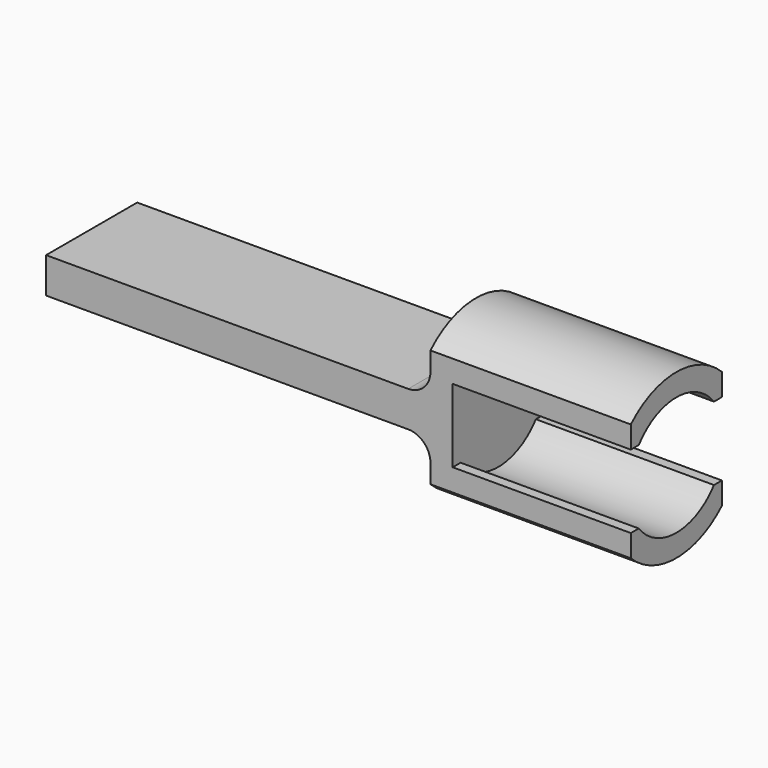
from build123d import *

# Parameters (mm, degrees)
F1_DEPTH = 25.4
F2_DEPTH = 3.175
F3_W     = 16.2421034352
F3_H     = 5.08
F4_DEPTH = 54.8132
F5_R     = 3.175


with BuildPart() as f1:
    # F0 (on Right) → F1 (new body)
    with BuildSketch(Plane.YZ):
        with BuildLine():
            Line((-8.1210517176, 8.4002604126), (-8.1210517176, 5.2353069186))
            Line((-8.1210517176, 5.2353069186), (-6.7078045937, 5.2353069186))
            ThreePointArc((-6.7078045937, 5.2353069186), (0, 8.509), (6.7078045937, 5.2353069186))
            Line((6.7078045937, 5.2353069186), (8.1210517176, 5.2353069186))
            Line((8.1210517176, 5.2353069186), (8.1210517176, 8.4002604126))
            ThreePointArc((8.1210517176, 8.4002604126), (0, 11.684), (-8.1210517176, 8.4002604126))
        make_face()
    extrude(amount=F1_DEPTH)



with BuildPart() as f1b:
    # F0 (on Right) → F1, piece 2 (new body)
    with BuildSketch(Plane.YZ):
        with BuildLine():
            Line((-8.1210517176, -5.2353069186), (-8.1210517176, -8.4002604126))
            ThreePointArc((-8.1210517176, -8.4002604126), (0, -11.684), (8.1210517176, -8.4002604126))
            Line((8.1210517176, -8.4002604126), (8.1210517176, -5.2353069186))
            Line((8.1210517176, -5.2353069186), (6.7078045937, -5.2353069186))
            ThreePointArc((6.7078045937, -5.2353069186), (0, -8.509), (-6.7078045937, -5.2353069186))
            Line((-6.7078045937, -5.2353069186), (-8.1210517176, -5.2353069186))
        make_face()
    extrude(amount=F1_DEPTH)


with BuildPart() as f1_1:
    add(f1.part)

    add(f1b.part)  # F2 merges F1b
    # F0 (on Right) → F2 (join)
    with BuildSketch(Plane.YZ):
        with BuildLine():
            Line((-8.1210517176, 5.2353069186), (-8.1210517176, -5.2353069186))
            Line((-8.1210517176, -5.2353069186), (-6.7078045937, -5.2353069186))
            ThreePointArc((-6.7078045937, -5.2353069186), (0, -8.509), (6.7078045937, -5.2353069186))
            Line((6.7078045937, -5.2353069186), (8.1210517176, -5.2353069186))
            Line((8.1210517176, -5.2353069186), (8.1210517176, 5.2353069186))
            Line((8.1210517176, 5.2353069186), (6.7078045937, 5.2353069186))
            ThreePointArc((6.7078045937, 5.2353069186), (0, 8.509), (-6.7078045937, 5.2353069186))
            Line((-6.7078045937, 5.2353069186), (-8.1210517176, 5.2353069186))
        make_face()
        with BuildLine():
            Line((-8.1210517176, 8.4002604126), (-8.1210517176, 5.2353069186))
            Line((-8.1210517176, 5.2353069186), (-6.7078045937, 5.2353069186))
            ThreePointArc((-6.7078045937, 5.2353069186), (0, 8.509), (6.7078045937, 5.2353069186))
            Line((6.7078045937, 5.2353069186), (8.1210517176, 5.2353069186))
            Line((8.1210517176, 5.2353069186), (8.1210517176, 8.4002604126))
            ThreePointArc((8.1210517176, 8.4002604126), (0, 11.684), (-8.1210517176, 8.4002604126))
        make_face()
        with BuildLine():
            Line((-8.1210517176, -5.2353069186), (-8.1210517176, -8.4002604126))
            ThreePointArc((-8.1210517176, -8.4002604126), (0, -11.684), (8.1210517176, -8.4002604126))
            Line((8.1210517176, -8.4002604126), (8.1210517176, -5.2353069186))
            Line((8.1210517176, -5.2353069186), (6.7078045937, -5.2353069186))
            ThreePointArc((6.7078045937, -5.2353069186), (0, -8.509), (-6.7078045937, -5.2353069186))
            Line((-6.7078045937, -5.2353069186), (-8.1210517176, -5.2353069186))
        make_face()
    extrude(amount=-F2_DEPTH)

    # F3 (on face) → F4 (join)
    with BuildSketch(Plane(origin=(-3.175, 0, 0), x_dir=(0, -1, 0), z_dir=(-1, 0, 0))):
        Rectangle(F3_W, F3_H)
    extrude(amount=F4_DEPTH)

    # F5
    f5_edges = [f1_1.edges().sort_by_distance(p)[0] for p in [
        (-3.175, 0, 2.54),
        (-3.175, 0, -2.54),
    ]]
    fillet(f5_edges, radius=F5_R)


solid = f1_1.part
